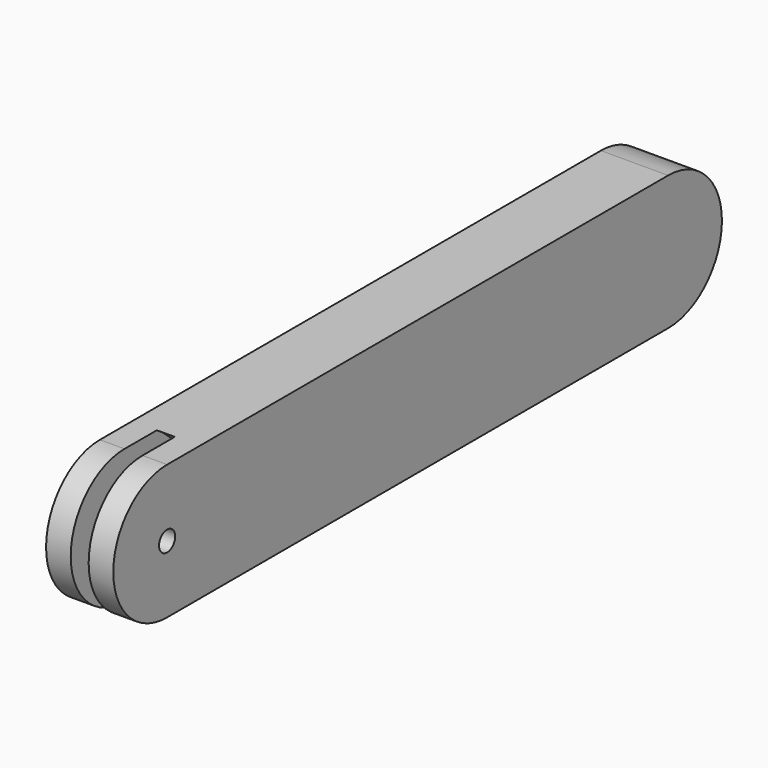
from build123d import *

# Parameters (mm, degrees)
F1_DEPTH = 30
F3_R     = 35
F4_DEPTH = 4
F5_D     = 9


with BuildPart() as f1:
    # F0 (on Right) → F1 (new body)
    with BuildSketch(Plane.YZ):
        with BuildLine():
            ThreePointArc((139.7, -30), (169.7, 0), (139.7, 30))
            Line((139.7, 30), (-139.7, 30))
            ThreePointArc((-139.7, 30), (-169.7, 0), (-139.7, -30))
            Line((-139.7, -30), (139.7, -30))
        make_face()
    extrude(amount=F1_DEPTH)

    # F3 (on mid) → F4 (cut, symmetric)
    with BuildSketch(Plane(origin=(15, 0, 0), x_dir=(0, -1, 0), z_dir=(-1, 0, 0))):
        with Locations((139.7, 0)):
            Circle(F3_R)
    extrude(amount=F4_DEPTH, both=True, mode=Mode.SUBTRACT)

    # F5 (through all)
    with Locations(Plane(origin=(0, 0, 0), x_dir=(0, 1, 0), z_dir=(-1, 0, 0))):
        with Locations((-139.7, 0)):
            Hole(F5_D / 2)


solid = f1.part
